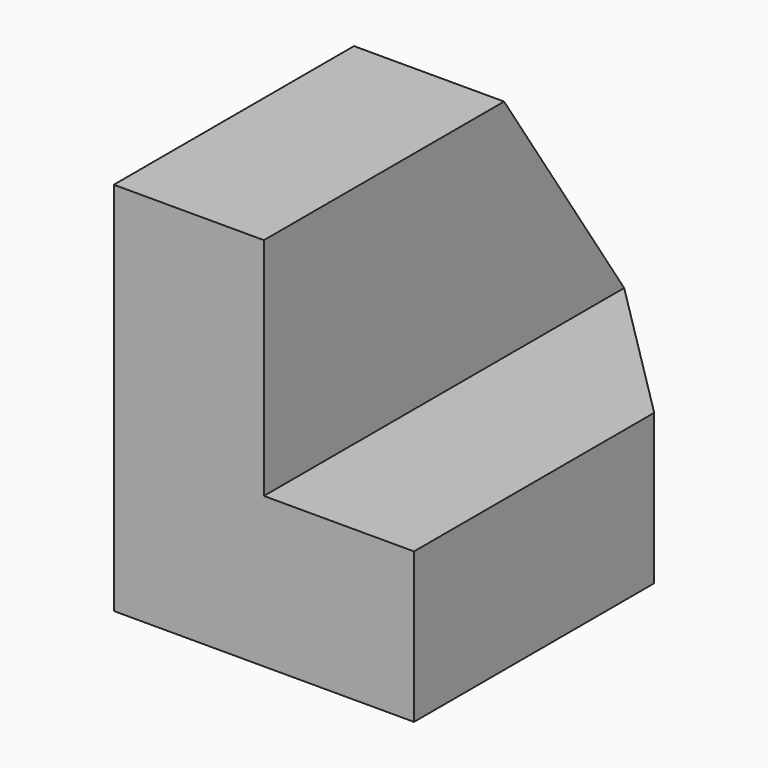
from build123d import *

# Parameters (mm, degrees)
F0_W     = 38.1
F0_H     = 31.75
F1_DEPTH = 12.7
F2_W     = 38.1
F2_H     = 12.7
F3_DEPTH = 12.7
F5_DEPTH = 25.4
F7_DEPTH = 25.4


with BuildPart() as f1:
    # F0 (on Right) → F1 (new body)
    with BuildSketch(Plane.YZ):
        with Locations((33.000047, 32.117949)):
            Rectangle(F0_W, F0_H)
    extrude(amount=F1_DEPTH)

    # F2 (on face) → F3 (join)
    with BuildSketch(Plane.YZ.offset(12.7)):
        with Locations((33.000047, 22.592949)):
            Rectangle(F2_W, F2_H)
    extrude(amount=F3_DEPTH)

    # F4 (on face) → F5 (cut)
    with BuildSketch(Plane.YZ.offset(12.7)):
        Polygon((39.350047, 47.992949), (52.050047, 28.942949), (52.050047, 47.992949), align=None)
    extrude(amount=-F5_DEPTH, mode=Mode.SUBTRACT)

    # F6 (on face) → F7 (cut)
    with BuildSketch(Plane.XY.offset(28.942949)):
        Polygon((25.4, 52.050047), (12.7, 52.050047), (25.4, 39.350047), align=None)
    extrude(amount=-F7_DEPTH, mode=Mode.SUBTRACT)


solid = f1.part
